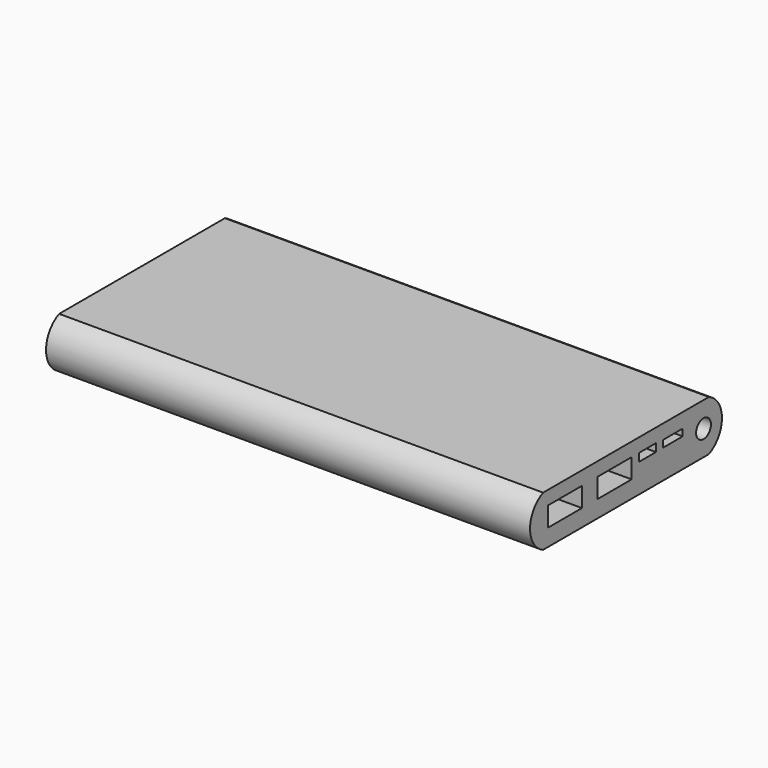
from build123d import *

# Parameters (mm, degrees)
PAD_DEPTH           = 74
SKETCH001_W         = 13
SKETCH001_H         = 6
POCKET_DEPTH        = 8
LINEARPATTERN_COUNT = 2
LINEARPATTERN_PITCH = 19
SKETCH002_R         = 2.836223
SKETCH002_W         = 6.476894
SKETCH002_H         = 2.419083
SKETCH002_W_2       = 7.491354
SKETCH002_H_2       = 2.106944
POCKET001_DEPTH     = 5


with BuildPart() as part:
    # Sketch → Pad (new body, symmetric)
    with BuildSketch(Plane.YZ):
        with BuildLine():
            ThreePointArc((-31.68, 7.7), (-36.68, 0), (-31.68, -7.7))
            Line((-31.68, -7.7), (31.68, -7.7))
            ThreePointArc((31.68, -7.7), (36.68, 0), (31.68, 7.7))
            Line((-31.68, 7.7), (31.68, 7.7))
        make_face()
    extrude(amount=PAD_DEPTH, both=True)

    # Sketch001 (on DatumPlane) → Pocket (cut)
    with BuildSketch(Plane.YZ.offset(74)):
        with Locations((-23.331998, 0.508297)):
            Rectangle(SKETCH001_W, SKETCH001_H)
    pocket = extrude(amount=-POCKET_DEPTH, mode=Mode.SUBTRACT)

    # LinearPattern: Pocket ×2
    with Locations(*[(0, i * LINEARPATTERN_PITCH, 0) for i in range(1, LINEARPATTERN_COUNT)]):
        add(pocket, mode=Mode.SUBTRACT)

    # Sketch002 (on DatumPlane) → Pocket001 (cut)
    with BuildSketch(Plane.YZ.offset(74)):
        with Locations((29.637125, 0)):
            Circle(SKETCH002_R)
        with Locations((8.216534, 2.288247)):
            Rectangle(SKETCH002_W, SKETCH002_H)
        with Locations((17.931886, 2.210213)):
            Rectangle(SKETCH002_W_2, SKETCH002_H_2)
    extrude(amount=-POCKET001_DEPTH, mode=Mode.SUBTRACT)


solid = part.part
